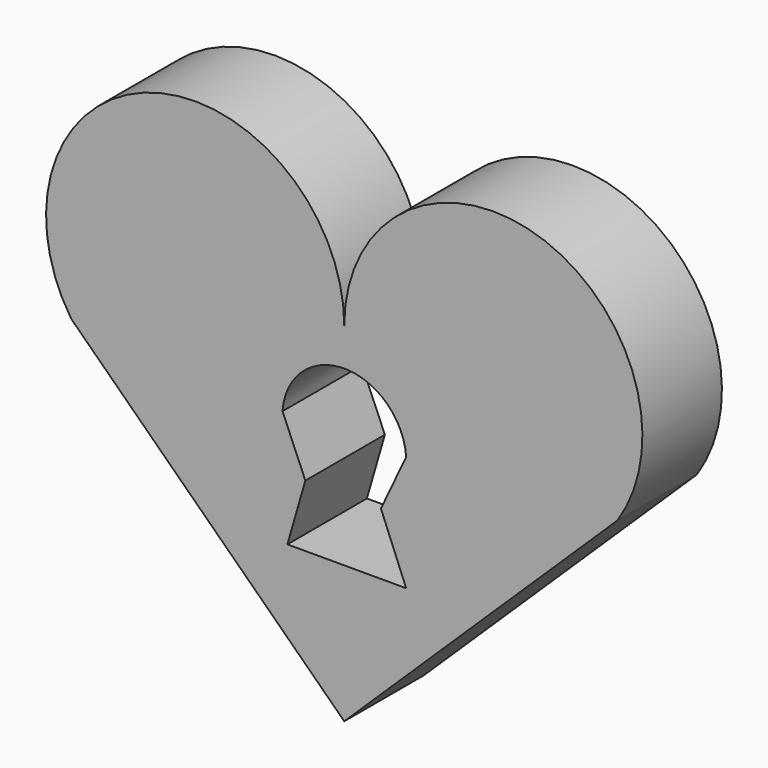
from build123d import *

# Parameters (mm, degrees)
F1_DEPTH = 25.4


with BuildPart() as f1:
    # F0 (on Front) → F1 (new body)
    with BuildSketch(Plane.XZ):
        with BuildLine():
            ThreePointArc((69.798931, 16.962646), (49.142661, 74.564636), (0, 38.1))
            ThreePointArc((0, 38.1), (-49.142661, 74.564636), (-69.798931, 16.962646))
            Line((-69.798931, 16.962646), (0, -50.915454))
            Line((0, -50.915454), (69.798931, 16.962646))
        make_face()
        with BuildLine():
            ThreePointArc((-15.777161, 13.708008), (0.022895, 28.457214), (15.822951, 13.708008))
            Line((15.822951, 13.708008), (9.382167, 0))
            Line((9.382167, 0), (15.822951, -15.835773))
            Line((15.822951, -15.835773), (-14.52887, -15.835773))
            Line((-14.52887, -15.835773), (-9.940196, 0))
            Line((-9.940196, 0), (-15.777161, 13.708008))
        make_face(mode=Mode.SUBTRACT)
    extrude(amount=F1_DEPTH)


solid = f1.part
